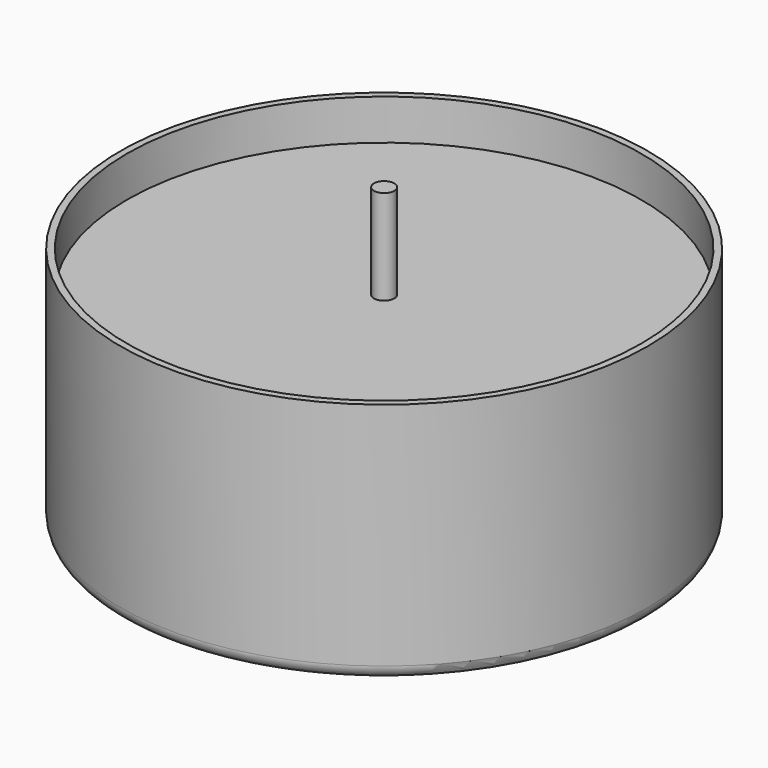
from build123d import *

# Parameters (mm, degrees)
F0_R     = 19.5
F1_DEPTH = 18
F2_R     = 19
F3_DEPTH = 3
F4_R     = 0.75
F5_DEPTH = 7
F6_R     = 1


with BuildPart() as f1:
    # F0 (on Top) → F1 (new body)
    with BuildSketch(Plane.XY):
        Circle(F0_R)
    extrude(amount=F1_DEPTH)

    # F2 (on face) → F3 (cut)
    with BuildSketch(Plane.XY.offset(18)):
        Circle(F2_R)
    extrude(amount=-F3_DEPTH, mode=Mode.SUBTRACT)

    # F4 (on face) → F5 (join)
    with BuildSketch(Plane.XY.offset(15)):
        Circle(F4_R)
    extrude(amount=F5_DEPTH)

    # F6
    f6_edges = [f1.edges().sort_by_distance(p)[0] for p in [
        (-19.5, 0, 0),
    ]]
    fillet(f6_edges, radius=F6_R)


solid = f1.part
